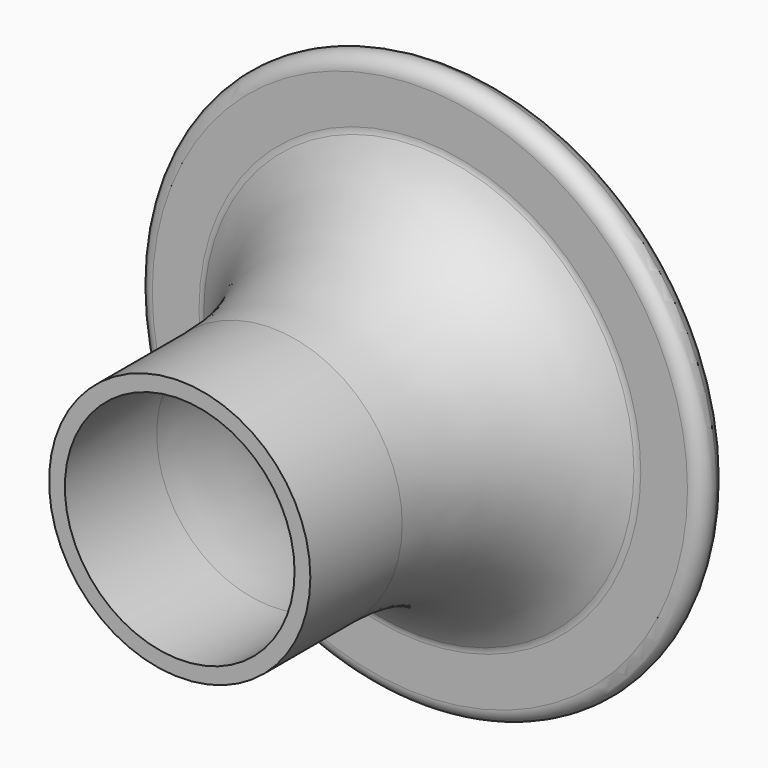
from build123d import *


with BuildPart() as f1:
    # F0 (on Top) → F1 (revolve)
    with BuildSketch(Plane.XY):
        with BuildLine():
            ThreePointArc((59.1817405743, 40.9936836903), (61.8067292629, 42.3826099559), (62.1350781175, 45.3341974637))
            ThreePointArc((62.1350781175, 45.3341974637), (58.9601205576, 49.303969233), (54.102, 50.8))
            add(Edge.make_bspline(
                [(54.102, 50.8), (25.4, 50.8), (25.4, 0)],
                knots=[0, 0, 0, 1.5707963268, 1.5707963268, 1.5707963268], degree=2, weights=[1, 0.7071067812, 1]))
            Line((25.4, 0), (25.4, -25.4))
            Line((25.4, -25.4), (28.8925, -25.4))
            Line((28.8925, -25.4), (28.8925, 0))
            add(Edge.make_bspline(
                [(47.5468117709, 40.7135982273), (28.8925, 32.3116489326), (28.8925, 0)],
                knots=[0.2630517082, 0.2630517082, 0.2630517082, 1.5707963268, 1.5707963268, 1.5707963268], degree=2, weights=[1, 0.7937343669, 1]))
            ThreePointArc((47.5468117709, 40.7135982273), (48.1838785423, 40.922872687), (48.8506886146, 40.9936836903))
            Line((48.8506886146, 40.9936836903), (59.1817405743, 40.9936836903))
        make_face()
    revolve(axis=Axis((0, 35.1700206795, 0), (0, 1, 0)))


solid = f1.part
